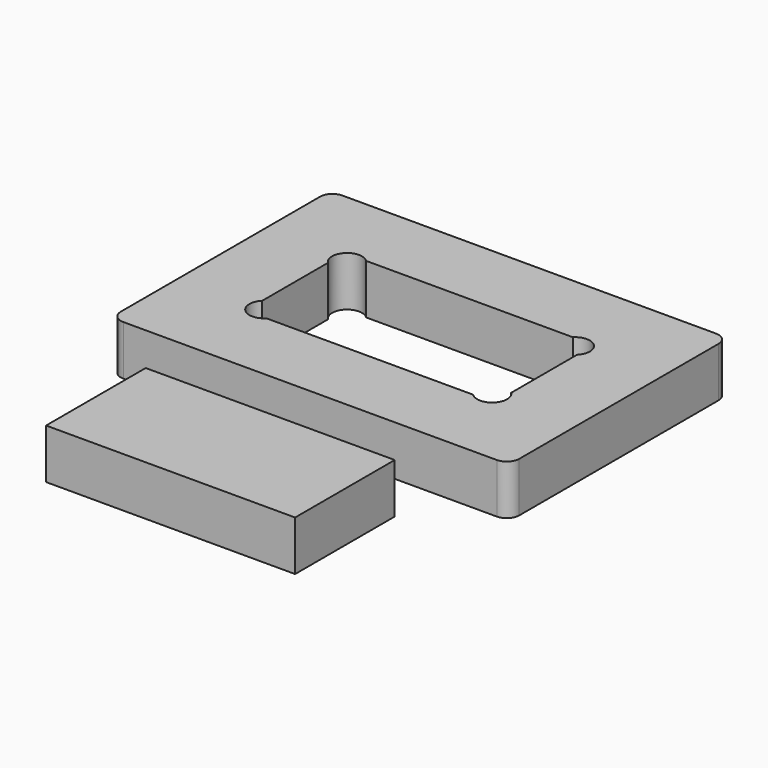
from build123d import *

# Parameters (mm, degrees)
F0_W     = 100
F0_H     = 50
F1_DEPTH = 20


with BuildPart() as f1:
    # F0 (on Top) → F1 (new body)
    with BuildSketch(Plane.XY):
        with BuildLine():
            Line((75, 55), (-75, 55))
            ThreePointArc((-75, 55), (-78.535534, 53.535534), (-80, 50))
            Line((-80, 50), (-80, -50))
            ThreePointArc((-80, -50), (-78.535534, -53.535534), (-75, -55))
            Line((-75, -55), (75, -55))
            ThreePointArc((75, -55), (78.535534, -53.535534), (80, -50))
            Line((80, -50), (80, 50))
            ThreePointArc((80, 50), (78.535534, 53.535534), (75, 55))
        make_face()
        with BuildLine():
            ThreePointArc((-50, 16.514719), (-50, 25), (-41.514719, 25))
            Line((-41.514719, 25), (41.514719, 25))
            ThreePointArc((41.514719, 25), (50, 25), (50, 16.514719))
            Line((50, 16.514719), (50, -16.514719))
            ThreePointArc((50, -16.514719), (50, -25), (41.514719, -25))
            Line((41.514719, -25), (-41.514719, -25))
            ThreePointArc((-41.514719, -25), (-50, -25), (-50, -16.514719))
            Line((-50, -16.514719), (-50, 16.514719))
        make_face(mode=Mode.SUBTRACT)
        with Locations((0, -100)):
            Rectangle(F0_W, F0_H)
    extrude(amount=F1_DEPTH)


solid = f1.part
